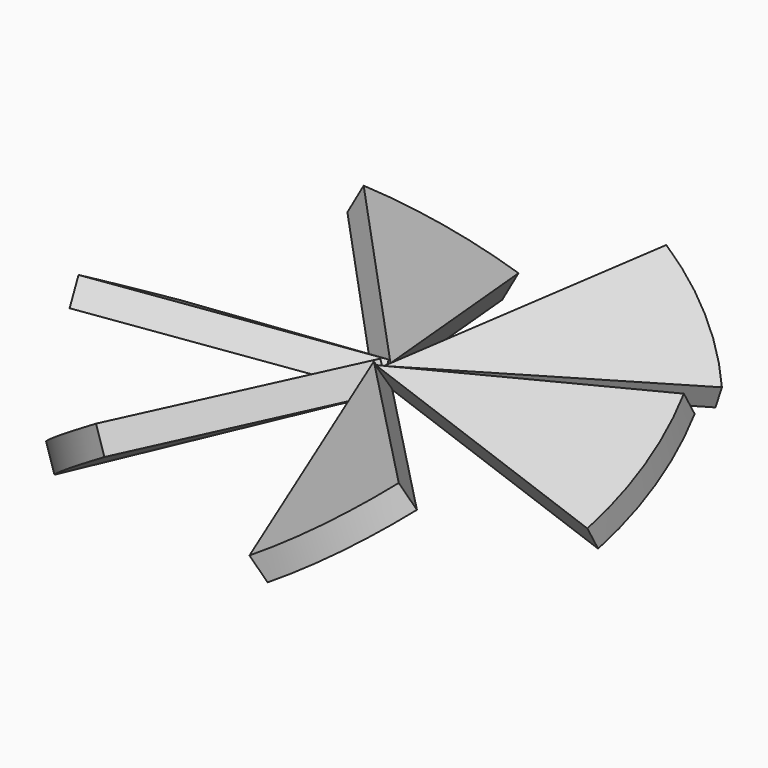
from build123d import *

# Parameters (mm, degrees)
F1_DEPTH = 5
F3_ANGLE = 30
F5_COUNT = 6


with BuildPart() as f1:
    # F0 (on Top) → F1 (new body, symmetric)
    with BuildSketch(Plane.XY):
        with BuildLine():
            Line((96.592583, 25.881905), (0, 0))
            Line((0, 0), (96.592583, -25.881905))
            ThreePointArc((96.592583, -25.881905), (100, 0), (96.592583, 25.881905))
        make_face()
    extrude(amount=F1_DEPTH, both=True)


with BuildPart() as f1_1:
    # F3: moved
    add(f1.part.rotate(Axis((64.488187, 0, 0), (1, 0, 0)), F3_ANGLE))


with BuildPart() as f5_1:
    # F5: instance of F1
    add(f1_1.part.rotate(Axis((0.274876, 0, 7.424039), (-0.04019, 0, 0.999192)), 1 * 360 / F5_COUNT))


with BuildPart() as f5_2:
    # F5: instance of F1
    add(f1_1.part.rotate(Axis((0.274876, 0, 7.424039), (-0.04019, 0, 0.999192)), 2 * 360 / F5_COUNT))


with BuildPart() as f5_3:
    # F5: instance of F1
    add(f1_1.part.rotate(Axis((0.274876, 0, 7.424039), (-0.04019, 0, 0.999192)), 3 * 360 / F5_COUNT))


with BuildPart() as f5_4:
    # F5: instance of F1
    add(f1_1.part.rotate(Axis((0.274876, 0, 7.424039), (-0.04019, 0, 0.999192)), 4 * 360 / F5_COUNT))


with BuildPart() as f5_5:
    # F5: instance of F1
    add(f1_1.part.rotate(Axis((0.274876, 0, 7.424039), (-0.04019, 0, 0.999192)), 5 * 360 / F5_COUNT))


solid = Compound([f1_1.part, f5_1.part, f5_2.part, f5_3.part, f5_4.part, f5_5.part])
